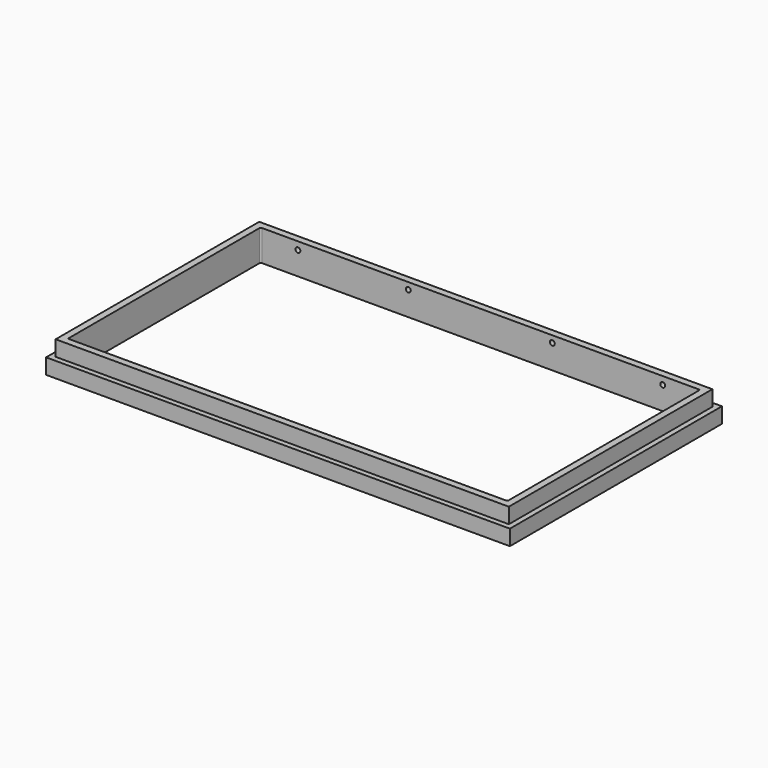
from build123d import *

# Parameters (mm, degrees)
F0_W      = 266.7
F0_H      = 152.4
F0_W_2    = 252.73
F0_H_2    = 138.43
F1_DEPTH  = 17.78
F2_W      = 266.7
F2_H      = 152.4
F2_W_2    = 260.604
F2_H_2    = 146.304
F3_DEPTH  = 8.89
F4_W      = 263.4996
F4_H      = 149.1996
F4_W_2    = 260.35
F4_H_2    = 146.05
F5_DEPTH  = 1.27
F6_R      = 0.762
F7_R      = 1.905
F8_R      = 1.4986
F9_DEPTH  = 8.128
F10_R     = 1.4224
F11_DEPTH = 25.4


with BuildPart() as f1:
    # F0 (on Top) → F1 (new body)
    with BuildSketch(Plane.XY):
        Rectangle(F0_W, F0_H)
        Rectangle(F0_W_2, F0_H_2, mode=Mode.SUBTRACT)
    extrude(amount=F1_DEPTH)

    # F2 (on face) → F3 (cut)
    with BuildSketch(Plane.XY.offset(17.78)):
        Rectangle(F2_W, F2_H)
        Rectangle(F2_W_2, F2_H_2, mode=Mode.SUBTRACT)
    extrude(amount=-F3_DEPTH, mode=Mode.SUBTRACT)

    # F4 (on face) → F5 (cut)
    with BuildSketch(Plane(origin=(0, 0, 0), x_dir=(1, 0, 0), z_dir=(0, 0, -1))):
        Rectangle(F4_W, F4_H)
        Rectangle(F4_W_2, F4_H_2, mode=Mode.SUBTRACT)
    extrude(amount=-F5_DEPTH, mode=Mode.SUBTRACT)

    # F6
    f6_edges = [f1.edges().sort_by_distance(p)[0] for p in [
        (-126.365, -69.215, 8.89),
        (126.365, -69.215, 8.89),
        (126.365, 69.215, 8.89),
        (-126.365, 69.215, 8.89),
    ]]
    fillet(f6_edges, radius=F6_R)

    # F7
    f7_edges = [f1.edges().sort_by_distance(p)[0] for p in [
        (130.175, 73.025, 0.635),
        (131.7498, 74.5998, 0.635),
        (-130.175, 73.025, 0.635),
        (-131.7498, 74.5998, 0.635),
        (-130.175, -73.025, 0.635),
        (-131.7498, -74.5998, 0.635),
        (130.175, -73.025, 0.635),
        (131.7498, -74.5998, 0.635),
    ]]
    fillet(f7_edges, radius=F7_R)

    # F8 (on face) → F9 (cut)
    with BuildSketch(Plane(origin=(0, 0, 0), x_dir=(1, 0, 0), z_dir=(0, 0, -1))):
        with Locations((127.949095, -71.12)):
            Circle(F8_R)
        with Locations((128.141546, -28.642724)):
            Circle(F8_R)
        with Locations((128.34959, 17.276384)):
            Circle(F8_R)
        with Locations((-127.949095, -71.12)):
            Circle(F8_R)
        with Locations((-128.34959, 17.276384)):
            Circle(F8_R)
        with Locations((-128.141546, -28.642724)):
            Circle(F8_R)
        with Locations((76.691895, -71.12)):
            Circle(F8_R)
        with Locations((25.434695, -71.12)):
            Circle(F8_R)
        with Locations((-25.822505, -71.12)):
            Circle(F8_R)
        with Locations((-77.079705, -71.12)):
            Circle(F8_R)
        with Locations((76.691895, 71.12)):
            Circle(F8_R)
        with Locations((127.949095, 71.12)):
            Circle(F8_R)
        with Locations((-127.949095, 71.12)):
            Circle(F8_R)
        with Locations((25.434695, 71.12)):
            Circle(F8_R)
        with Locations((-77.079705, 71.12)):
            Circle(F8_R)
        with Locations((-25.822505, 71.12)):
            Circle(F8_R)
    extrude(amount=-F9_DEPTH, mode=Mode.SUBTRACT)

    # F10 (on face) → F11 (cut)
    with BuildSketch(Plane(origin=(0, 73.152, 0), x_dir=(-1, 0, 0), z_dir=(0, 1, 0))):
        with Locations((-104.902, 13.335)):
            Circle(F10_R)
        with Locations((-41.402, 13.892556)):
            Circle(F10_R)
        with Locations((104.902, 13.335)):
            Circle(F10_R)
        with Locations((41.402, 13.892556)):
            Circle(F10_R)
    extrude(amount=-F11_DEPTH, mode=Mode.SUBTRACT)


solid = f1.part
